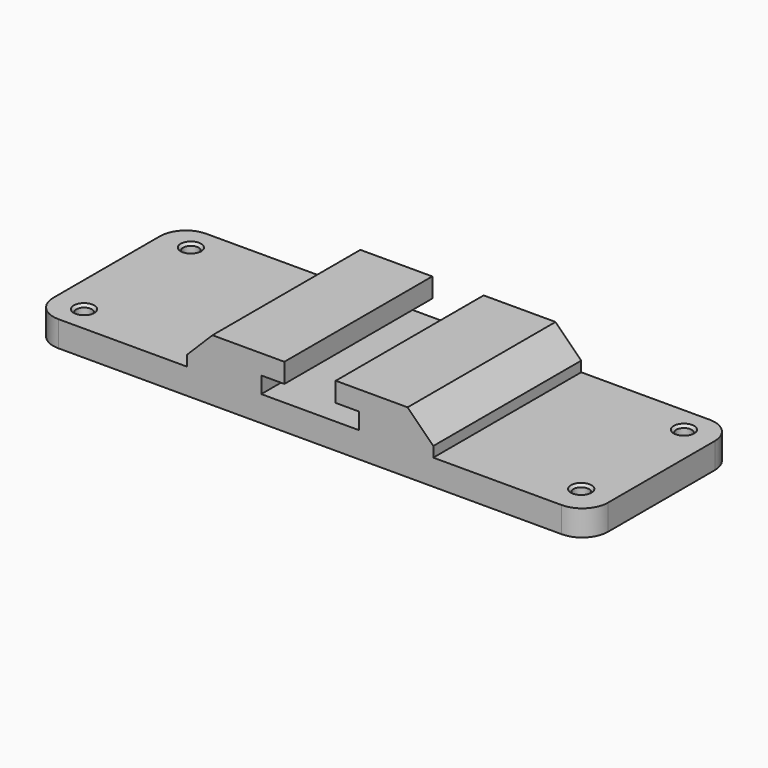
from build123d import *

# Parameters (mm, degrees)
F1_DEPTH = 36
F2_SIZE  = 5
F3_R     = 1.5
F4_DEPTH = 13.1
F5_SIZE  = 0.5
F6_R     = 5


with BuildPart() as f1:
    # F0 (on Front) → F1 (new body)
    with BuildSketch(Plane.XZ):
        Polygon((-54, 0), (0, 0), (54, 0), (54, 5), (24, 5), (24, 12), (5, 12), (5, 8.2), (9.5, 8.2), (9.5, 5), (0, 5), (-9.5, 5), (-9.5, 8.2), (-5, 8.2), (-5, 12), (-24, 12), (-24, 5), (-54, 5), align=None)
    extrude(amount=F1_DEPTH)

    # F2
    f2_edges = [f1.edges().sort_by_distance(p)[0] for p in [
        (24, -18, 12),
        (-24, -18, 12),
    ]]
    chamfer(f2_edges, length=F2_SIZE)

    # F3 (on Top) → F4 (cut)
    with BuildSketch(Plane.XY):
        with Locations((-48, -5)):
            Circle(F3_R)
        with Locations((-48, -31)):
            Circle(F3_R)
        with Locations((48, -5)):
            Circle(F3_R)
        with Locations((48, -30)):
            Circle(F3_R)
    extrude(amount=F4_DEPTH, mode=Mode.SUBTRACT)

    # F5
    f5_edges = [f1.edges().sort_by_distance(p)[0] for p in [
        (-49.5, -5, 5),
        (-49.5, -31, 5),
        (46.5, -5, 5),
        (46.5, -30, 5),
    ]]
    chamfer(f5_edges, length=F5_SIZE)

    # F6
    f6_edges = [f1.edges().sort_by_distance(p)[0] for p in [
        (-54, 0, 2.5),
        (-54, -36, 2.5),
        (54, -36, 2.5),
        (54, 0, 2.5),
    ]]
    fillet(f6_edges, radius=F6_R)


solid = f1.part
